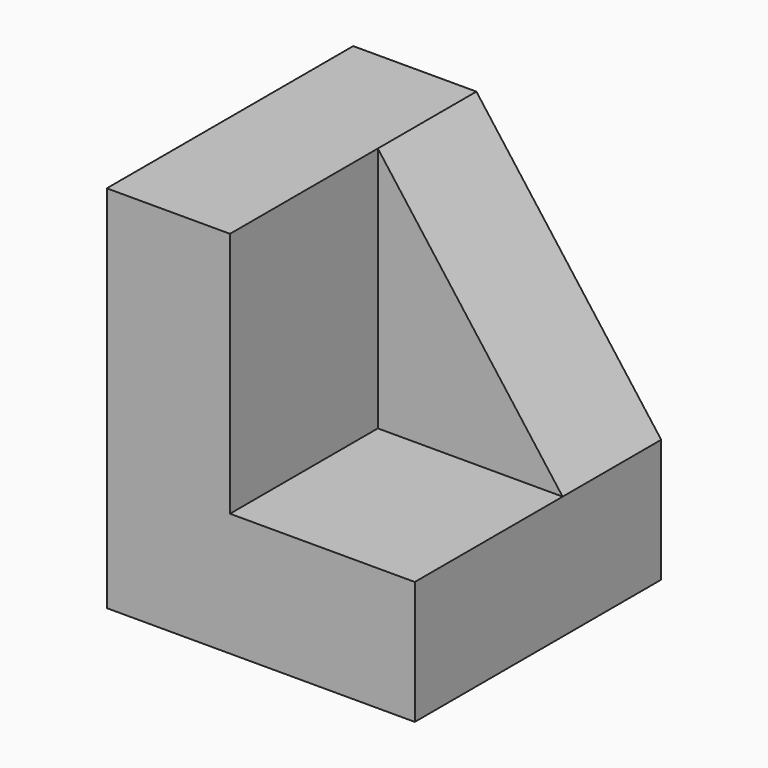
from build123d import *

# Parameters (mm, degrees)
F1_DEPTH = 1270
F3_DEPTH = 508


with BuildPart() as f1:
    # F0 (on Front) → F1 (new body)
    with BuildSketch(Plane.XZ):
        Polygon((0, 1524), (0, 0), (1270, 0), (1270, 508), (508, 508), (508, 1524), align=None)
    extrude(amount=F1_DEPTH)

    # F2 (on face) → F3 (join)
    with BuildSketch(Plane(origin=(0, 0, 0), x_dir=(-1, 0, 0), z_dir=(0, 1, 0))):
        Polygon((-508, 508), (-508, 1524), (-1270, 508), align=None)
    extrude(amount=-F3_DEPTH)


solid = f1.part
